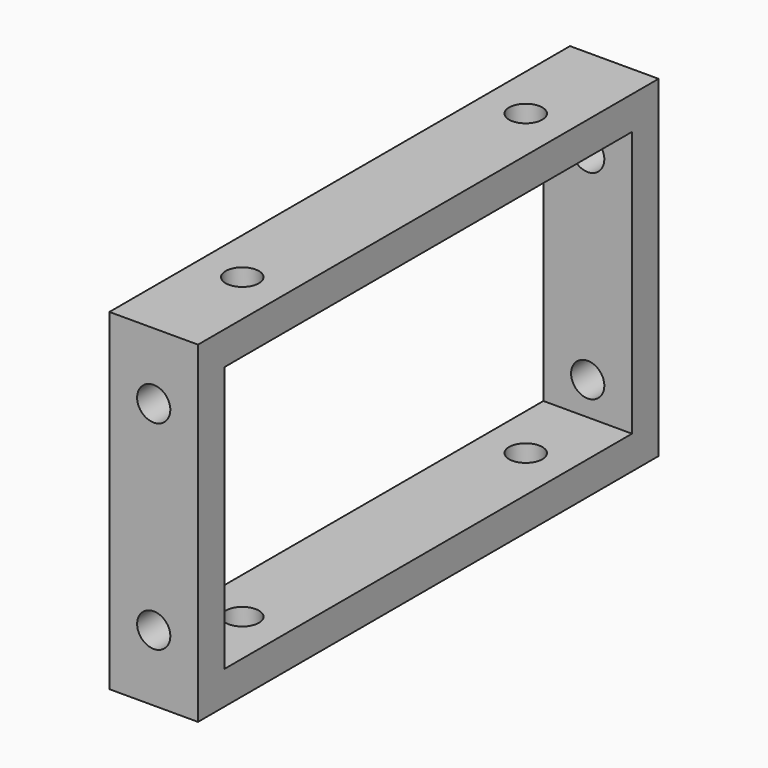
from build123d import *

# Parameters (mm, degrees)
SKETCH011_W     = 52
SKETCH011_H     = 30
SKETCH011_W_2   = 46
SKETCH011_H_2   = 24
PAD011_DEPTH    = 8
SKETCH012_R     = 1.5
POCKET_DEPTH    = 52.001
SKETCH013_R     = 1.5
POCKET001_DEPTH = 30.001


with BuildPart() as part:
    # Sketch011 → Pad011 (new body)
    with BuildSketch(Plane.YZ):
        with Locations((26, 15)):
            Rectangle(SKETCH011_W, SKETCH011_H)
        with Locations((26, 15)):
            Rectangle(SKETCH011_W_2, SKETCH011_H_2, mode=Mode.SUBTRACT)
    extrude(amount=PAD011_DEPTH)

    # Sketch012 (on Face2 of Pad011) → Pocket (cut, through all)
    with BuildSketch(Plane.ZX.offset(52)):
        with Locations((6, 4)):
            Circle(SKETCH012_R)
        with Locations((24, 4)):
            Circle(SKETCH012_R)
    extrude(amount=-POCKET_DEPTH, mode=Mode.SUBTRACT)

    # Sketch013 (on Face1 of Pocket) → Pocket001 (cut, through all)
    with BuildSketch(Plane.YX):
        with Locations((10, 4)):
            Circle(SKETCH013_R)
        with Locations((42, 4)):
            Circle(SKETCH013_R)
    extrude(amount=-POCKET001_DEPTH, mode=Mode.SUBTRACT)


solid = part.part
